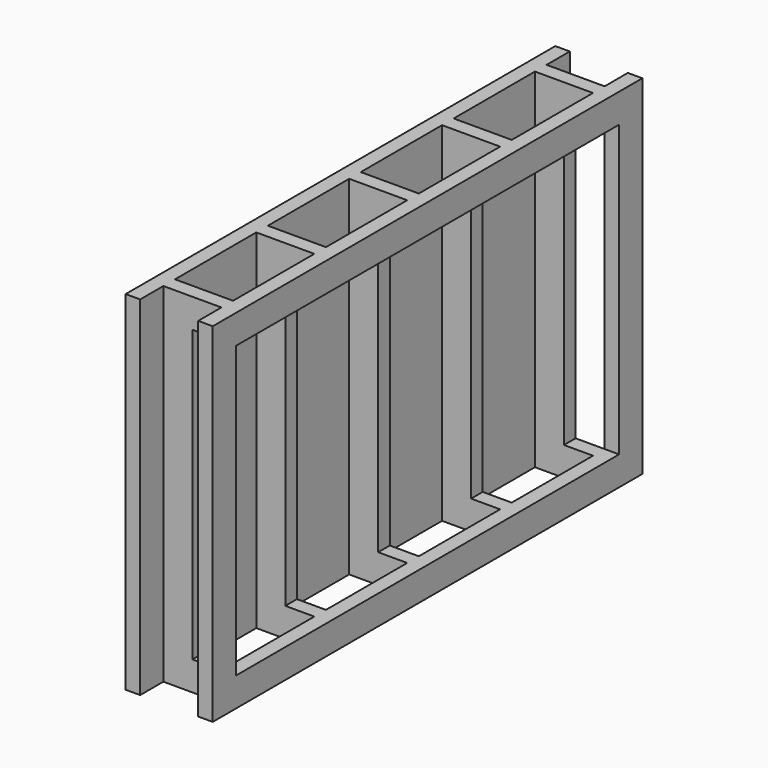
from build123d import *

# Parameters (mm, degrees)
F1_DEPTH = 609.6
F2_W     = 25.4
F2_H     = 50.8
F2_H_2   = 838.2
F3_DEPTH = 609.6
F4_W     = 838.2
F4_H     = 508
F5_DEPTH = 76.2


with BuildPart() as f1:
    # F0 (on Top) → F1 (new body)
    with BuildSketch(Plane.XY):
        Polygon((152.4, 838.2), (0, 838.2), (0, 419.1), (0, 0), (152.4, 0), (152.4, 25.4), (25.4, 25.4), (25.4, 203.2), (152.4, 203.2), (152.4, 215.9), (152.4, 228.6), (25.4, 228.6), (25.4, 406.4), (152.4, 406.4), (152.4, 419.1), (152.4, 431.8), (25.4, 431.8), (25.4, 609.6), (152.4, 609.6), (152.4, 622.3), (152.4, 635), (25.4, 635), (25.4, 812.8), (152.4, 812.8), align=None)
    extrude(amount=-F1_DEPTH)

    # F2 (on face) → F3 (join)
    with BuildSketch(Plane.XY):
        with Locations((12.7, 863.6)):
            Rectangle(F2_W, F2_H)
        with Locations((12.7, -25.4)):
            Rectangle(F2_W, F2_H)
        with Locations((139.7, 419.1)):
            Rectangle(F2_W, F2_H_2)
        with Locations((139.7, 863.6)):
            Rectangle(F2_W, F2_H)
        with Locations((139.7, -25.4)):
            Rectangle(F2_W, F2_H)
    extrude(amount=-F3_DEPTH)

    # F4 (on face) → F5 (cut)
    with BuildSketch(Plane.YZ.offset(152.4)):
        with Locations((419.1, -304.8)):
            Rectangle(F4_W, F4_H)
    extrude(amount=-F5_DEPTH, mode=Mode.SUBTRACT)


solid = f1.part
